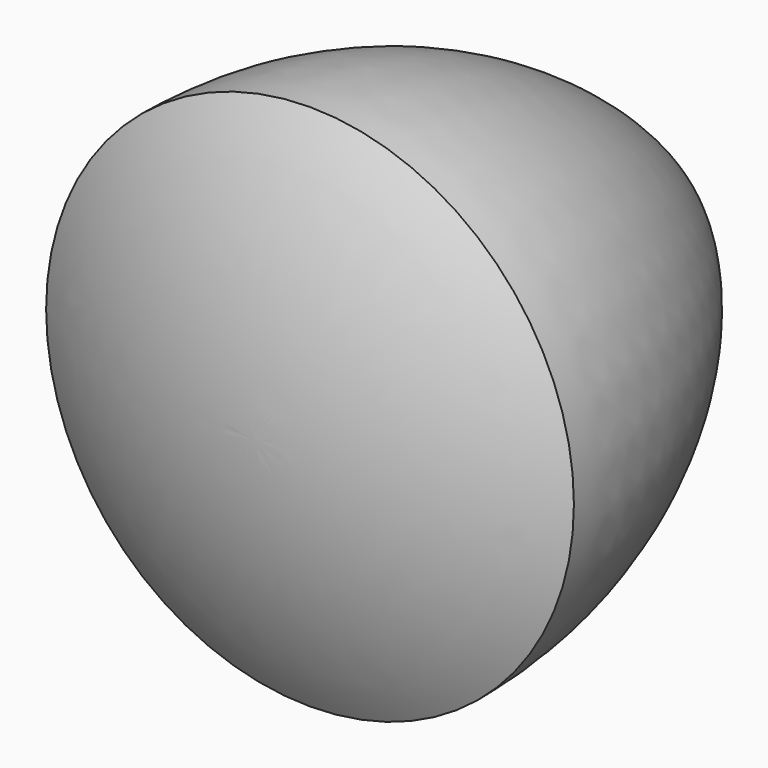
from build123d import *


with BuildPart() as f1:
    # F0 (on Top) → F1 (revolve)
    with BuildSketch(Plane.XY):
        with BuildLine():
            Line((-12.990381, -7.5), (0, 15))
            ThreePointArc((0, 15), (-9.509619, 5.490381), (-12.990381, -7.5))
        make_face()
        Polygon((0, -7.5), (0, 15), (-12.990381, -7.5), align=None)
        with BuildLine():
            Line((0, -7.5), (-12.990381, -7.5))
            ThreePointArc((-12.990381, -7.5), (-6.724316, -10.095489), (0, -10.980762))
            Line((0, -10.980762), (0, -7.5))
        make_face()
    revolve(axis=Axis((0, 2.009619, 0), (0, -1, 0)))


solid = f1.part
